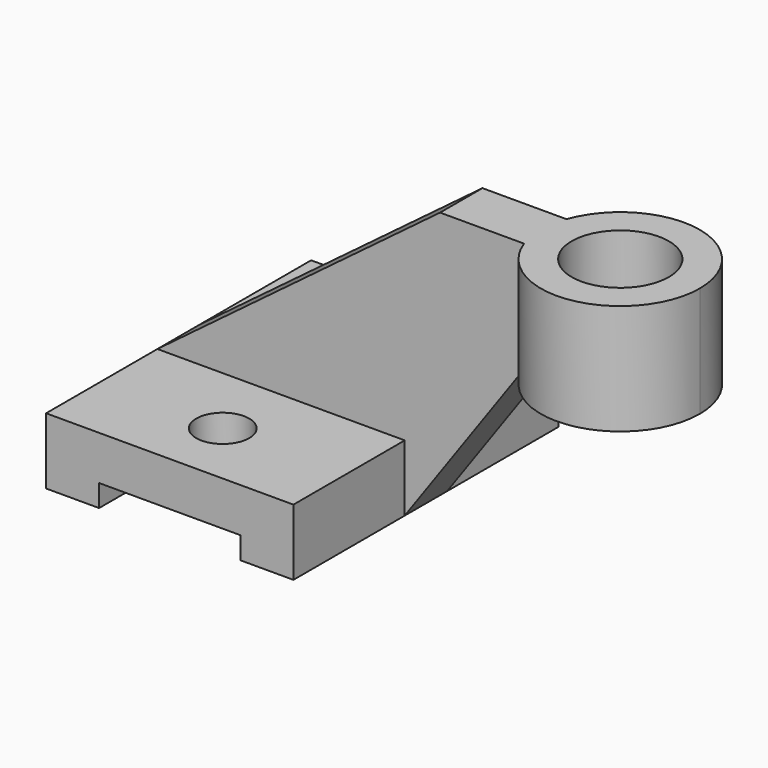
from build123d import *

# Parameters (mm, degrees)
F1_DEPTH = 37.5
F0_W     = 34.9705627485
F0_H     = 25
F2_R     = 6
F2_R_2   = 11
F3_DEPTH = 63.001
F4_DEPTH = 6


with BuildPart() as f1:
    # F0 (on Front) → F1 (new body, symmetric)
    with BuildSketch(Plane.XZ):
        Polygon((0, 15), (0, 0), (12, 0), (12, 5), (44, 5), (44, 0), (56, 0), (56, 15), align=None)
    extrude(amount=F1_DEPTH, both=True)


with BuildPart() as f1b:
    # F0 (on Front) → F1, piece 2 (new body, symmetric)
    with BuildSketch(Plane.XZ):
        with Locations((100.5147186258, 50.5)):
            Rectangle(F0_W, F0_H)
    extrude(amount=F1_DEPTH, both=True)


with BuildPart() as f3_tool:
    # F2 (on face) → F3 (new body, through all)
    with BuildSketch(Plane.XY.offset(63)):
        with Locations((28, -22.5)):
            Circle(F2_R)
        with Locations((100, 0)):
            Circle(F2_R_2)
        with Locations((28, 22.5312)):
            Circle(F2_R)
        with BuildLine():
            ThreePointArc((83.0294372515, 6), (103.0438356171, 17.7407740738), (118, 0))
            Line((118, 0), (118, 37.5))
            Line((118, 37.5), (83.0294372515, 37.5))
            Line((83.0294372515, 37.5), (83.0294372515, 6))
        make_face()
        with BuildLine():
            Line((118, -37.5), (118, 0))
            ThreePointArc((118, 0), (103.0438356171, -17.7407740738), (83.0294372515, -6))
            Line((83.0294372515, -6), (83.0294372515, -37.5))
            Line((83.0294372515, -37.5), (118, -37.5))
        make_face()
    extrude(amount=-F3_DEPTH)


with BuildPart() as f1_1:
    add(f1.part)

    # F3: cut by f3_tool
    add(f3_tool.part, mode=Mode.SUBTRACT)



with BuildPart() as f1b_1:
    add(f1b.part)

    # F3: cut by f3_tool
    add(f3_tool.part, mode=Mode.SUBTRACT)


with BuildPart() as f1_2:
    add(f1_1.part)

    add(f1b_1.part)  # F4 merges F1b
    # F0 (on Front) → F4 (join, symmetric)
    with BuildSketch(Plane.XZ):
        Polygon((64, 63), (0, 15), (56, 15), (56, 0), (83.0294372515, 38), (83.0294372515, 63), (82, 63), align=None)
    extrude(amount=F4_DEPTH, both=True)


solid = f1_2.part
